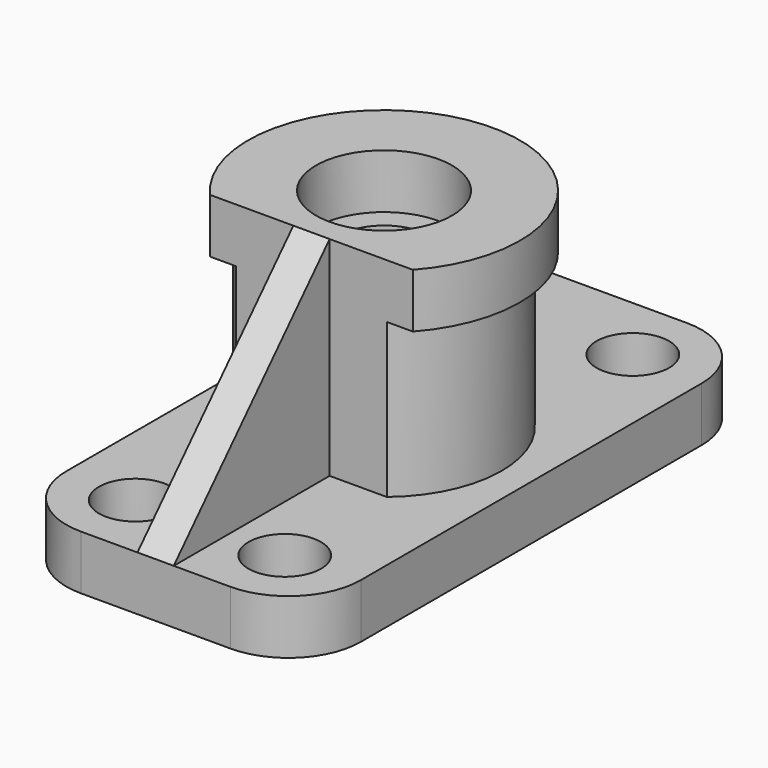
from build123d import *

# Parameters (mm, degrees)
F0_W      = 65
F0_H      = 126
F1_DEPTH  = 12
F2_R      = 16
F3_R      = 8
F4_DEPTH  = 12
F5_R      = 26
F6_DEPTH  = 34
F7_R      = 30
F8_DEPTH  = 12
F9_R      = 15
F10_DEPTH = 12
F11_R     = 10
F12_DEPTH = 46
F14_DEPTH = 46
F15_W     = 8
F15_H     = 43
F16_DEPTH = 46
F18_DEPTH = 8


with BuildPart() as f1:
    # F0 (on Top) → F1 (new body)
    with BuildSketch(Plane.XY):
        Rectangle(F0_W, F0_H)
    extrude(amount=F1_DEPTH)

    # F2
    f2_edges = [f1.edges().sort_by_distance(p)[0] for p in [
        (32.5, -63, 6),
        (-32.5, -63, 6),
        (32.5, 63, 6),
        (-32.5, 63, 6),
    ]]
    fillet(f2_edges, radius=F2_R)

    # F3 (on face) → F4 (cut, through all)
    with BuildSketch(Plane.XY.offset(12)):
        with Locations((-16.5, 48)):
            Circle(F3_R)
        with Locations((16.5, 48)):
            Circle(F3_R)
        with Locations((16.5, -48)):
            Circle(F3_R)
        with Locations((-16.5, -48)):
            Circle(F3_R)
    extrude(amount=-F4_DEPTH, mode=Mode.SUBTRACT)

    # F5 (on face) → F6 (join)
    with BuildSketch(Plane.XY.offset(12)):
        Circle(F5_R)
    extrude(amount=F6_DEPTH)

    # F7 (on face) → F8 (join)
    with BuildSketch(Plane.XY.offset(46)):
        Circle(F7_R)
    extrude(amount=F8_DEPTH)

    # F9 (on face) → F10 (cut)
    with BuildSketch(Plane.XY.offset(58)):
        Circle(F9_R)
    extrude(amount=-F10_DEPTH, mode=Mode.SUBTRACT)

    # F11 (on face) → F12 (cut, through all)
    with BuildSketch(Plane.XY.offset(46)):
        Circle(F11_R)
    extrude(amount=-F12_DEPTH, mode=Mode.SUBTRACT)

    # F13 (on face) → F14 (cut, through all)
    with BuildSketch(Plane.XY.offset(58)):
        with BuildLine():
            Line((22.36068, -20), (-22.36068, -20))
            ThreePointArc((-22.36068, -20), (0, -30), (22.36068, -20))
        make_face()
    extrude(amount=-F14_DEPTH, mode=Mode.SUBTRACT)

    # F15 (on face) → F16 (join, through all)
    with BuildSketch(Plane.XY.offset(12)):
        with Locations((0, -41.5)):
            Rectangle(F15_W, F15_H)
    extrude(amount=F16_DEPTH)

    # F17 (on face) → F18 (cut, through all)
    with BuildSketch(Plane.YZ.offset(4)):
        Polygon((-63, 12), (-20, 58), (-63, 58), align=None)
    extrude(amount=-F18_DEPTH, mode=Mode.SUBTRACT)


solid = f1.part
